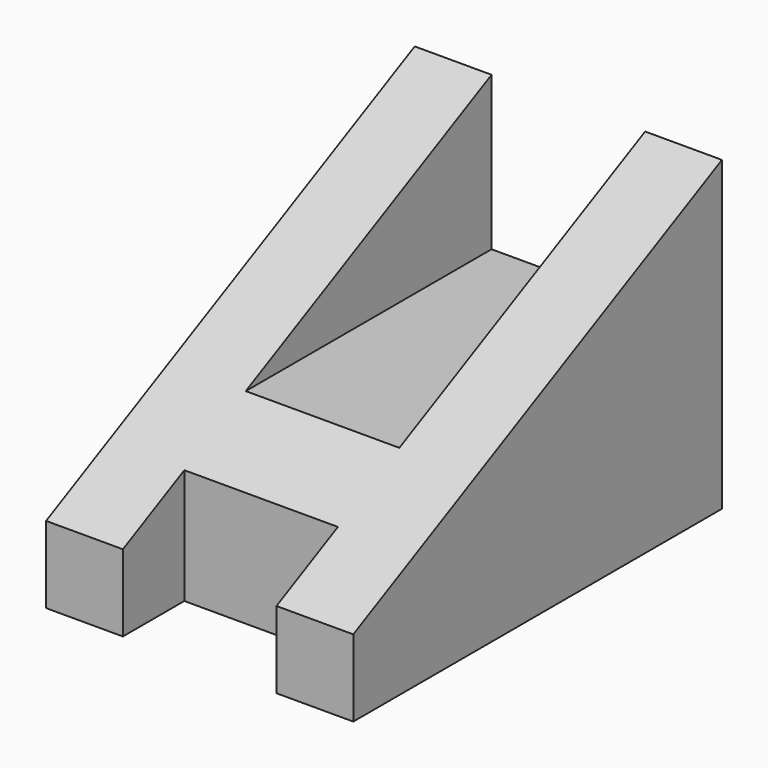
from build123d import *

# Parameters (mm, degrees)
F1_DEPTH = 20
F0_W     = 10
F0_H     = 20
F2_DEPTH = 10
F4_DEPTH = 20.001


with BuildPart() as f1:
    # F0 (on Top) → F1 (new body)
    with BuildSketch(Plane.XY):
        Polygon((0, 30), (0, 0), (5, 0), (5, 5), (15, 5), (15, 0), (20, 0), (20, 30), (15, 30), (15, 10), (5, 10), (5, 30), align=None)
    extrude(amount=F1_DEPTH)

    # F0 (on Top) → F2 (join)
    with BuildSketch(Plane.XY):
        with Locations((10, 20)):
            Rectangle(F0_W, F0_H)
    extrude(amount=F2_DEPTH)

    # F3 (on Right) → F4 (cut, through all)
    with BuildSketch(Plane.YZ):
        Polygon((0, 20), (0, 5), (30, 20), align=None)
    extrude(amount=F4_DEPTH, mode=Mode.SUBTRACT)


solid = f1.part
